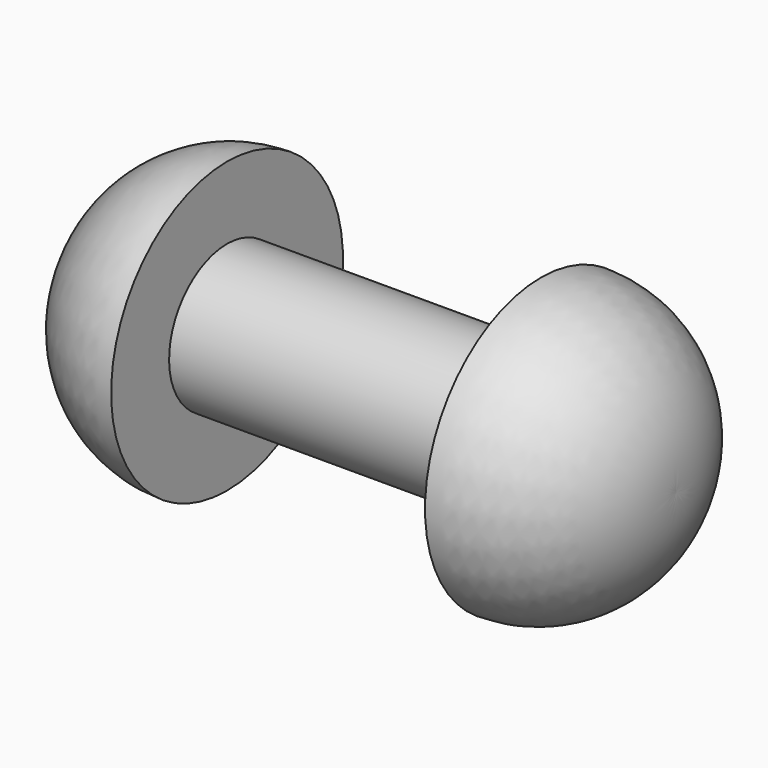
from build123d import *


with BuildPart() as f1:
    # F0 (on Front) → F1 (revolve)
    with BuildSketch(Plane.XZ):
        with BuildLine():
            Line((-20.6375, 9.525), (-20.6375, 19.05))
            ThreePointArc((-20.6375, 19.05), (-33.674502, 13.389764), (-38.440623, 0))
            Line((-38.440623, 0), (38.440623, 0))
            ThreePointArc((38.440623, 0), (33.674502, 13.389764), (20.6375, 19.05))
            Line((20.6375, 19.05), (20.6375, 9.525))
            Line((20.6375, 9.525), (0, 9.525))
            Line((0, 9.525), (-20.6375, 9.525))
        make_face()
    revolve(axis=Axis((0, 0, 0), (1, 0, 0)))


solid = f1.part
